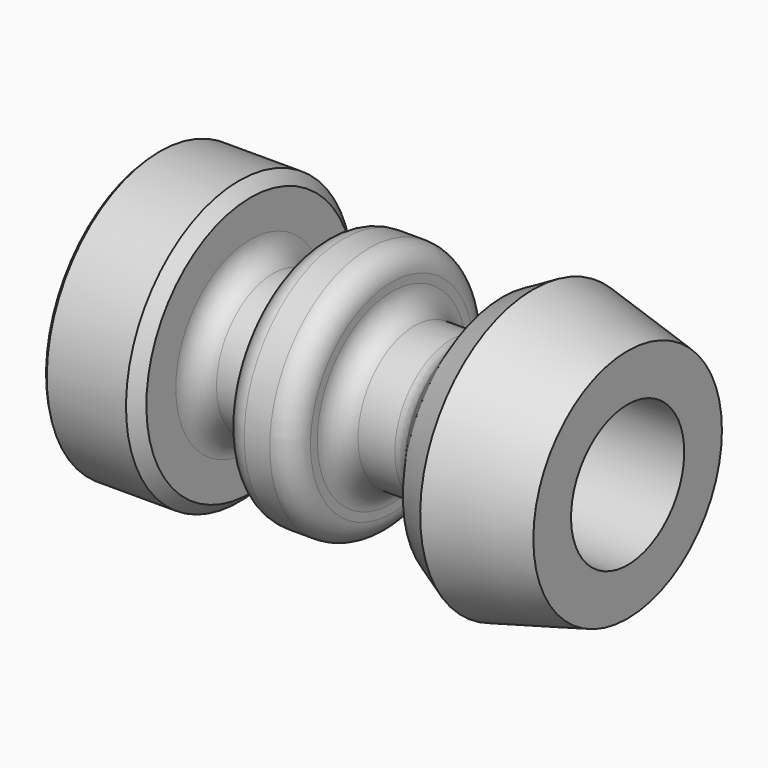
from build123d import *

# Parameters (mm, degrees)
F2_R    = 1.524
F3_SIZE = 0.762
F4_SIZE = 0.254


with BuildPart() as f1:
    # F0 (on Front) → F1 (revolve)
    with BuildSketch(Plane.XZ):
        Polygon((-31.75, 0), (-9.099631, 0), (-6.35, 4.7625), (0, 4.7625), (0, 7.9375), (-6.35, 9.525), (-8.432799, 8.382), (-11.0998, 4.7625), (-15.875, 4.7625), (-15.875, 8.382), (-20.6375, 8.382), (-20.6375, 4.7625), (-25.4, 4.7625), (-25.4, 9.525), (-31.75, 9.525), align=None)
    revolve(axis=Axis((-15.875, 0, 0), (-1, 0, 0)))

    # F2
    f2_edges = [f1.edges().sort_by_distance(p)[0] for p in [
        (-20.6375, 0, -8.382),
        (-15.875, 0, -4.7625),
        (-15.875, 0, -8.382),
        (-20.6375, 0, -4.7625),
        (-11.0998, 0, -4.7625),
        (-25.4, 0, -4.7625),
    ]]
    fillet(f2_edges, radius=F2_R)

    # F3
    f3_edges = [f1.edges().sort_by_distance(p)[0] for p in [
        (-25.4, 0, -9.525),
    ]]
    chamfer(f3_edges, length=F3_SIZE)

    # F4
    f4_edges = [f1.edges().sort_by_distance(p)[0] for p in [
        (-31.75, 0, -9.525),
    ]]
    chamfer(f4_edges, length=F4_SIZE)


solid = f1.part
